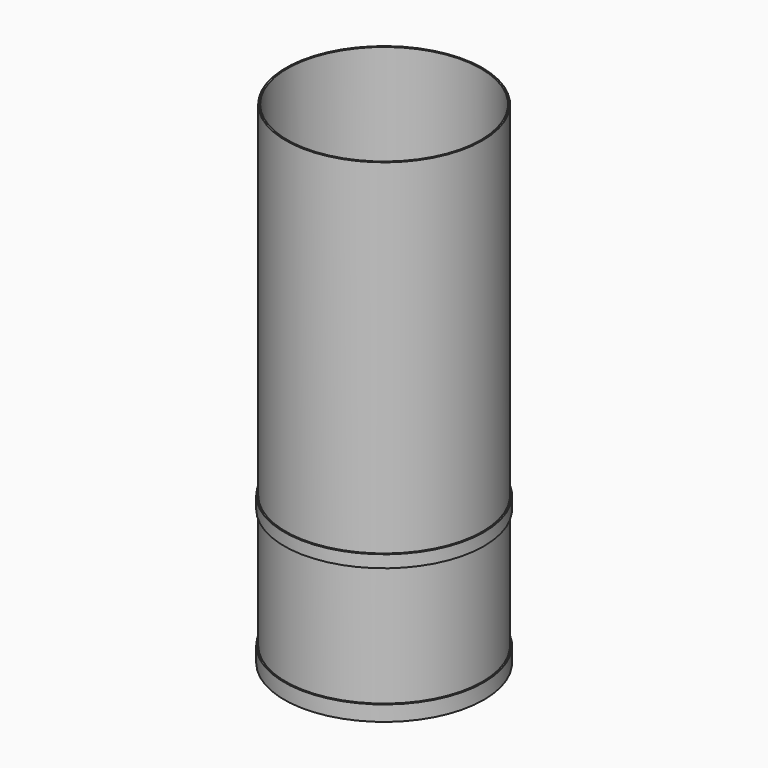
from build123d import *

# Parameters (mm, degrees)
F0_R     = 203.2
F0_R_2   = 200.025
F1_DEPTH = 1016
F0_R_3   = 206.375
F2_DEPTH = 31.75
F5_R     = 206.375
F5_R_2   = 203.2
F6_DEPTH = 25.4


with BuildPart() as f1:
    # F0 (on Top) → F1 (new body)
    with BuildSketch(Plane.XY):
        Circle(F0_R)
        Circle(F0_R_2, mode=Mode.SUBTRACT)
    extrude(amount=F1_DEPTH)

    # F0 (on Top) → F2 (join)
    with BuildSketch(Plane.XY):
        Circle(F0_R_3)
        Circle(F0_R, mode=Mode.SUBTRACT)
    extrude(amount=F2_DEPTH)


with BuildPart() as f6:
    # F5 (on face) → F6 (new body)
    with BuildSketch(Plane.XY.offset(279.4)):
        Circle(F5_R)
        Circle(F5_R_2, mode=Mode.SUBTRACT)
    extrude(amount=F6_DEPTH)


solid = Compound([f1.part, f6.part])
